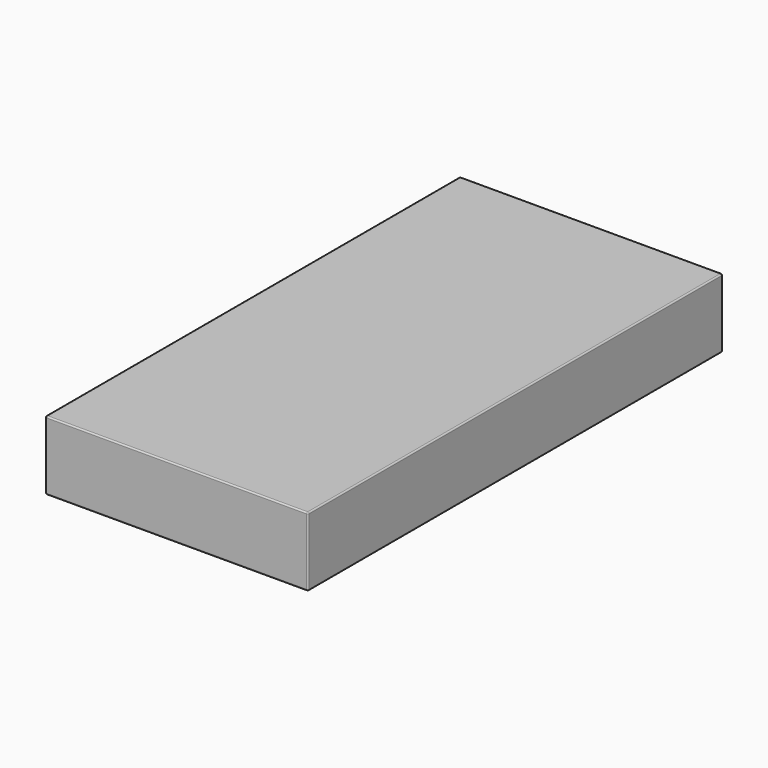
from build123d import *

# Parameters (mm, degrees)
F0_W     = 1905
F0_H     = 254
F1_DEPTH = 482.6
F2_R     = 5.08


with BuildPart() as f1:
    # F0 (on Right) → F1 (new body, symmetric)
    with BuildSketch(Plane.YZ):
        with Locations((952.5, 127)):
            Rectangle(F0_W, F0_H)
    extrude(amount=F1_DEPTH, both=True)

    # F2
    f2_edges = [f1.edges().sort_by_distance(p)[0] for p in [
        (-482.6, 952.5, 254),
        (0, 0, 254),
        (0, 1905, 254),
        (482.6, 952.5, 254),
        (-482.6, 0, 127),
        (482.6, 0, 127),
        (482.6, 1905, 127),
        (482.6, 952.5, 0),
        (0, 0, 0),
        (0, 1905, 0),
        (-482.6, 1905, 127),
        (-482.6, 952.5, 0),
    ]]
    fillet(f2_edges, radius=F2_R)


solid = f1.part
